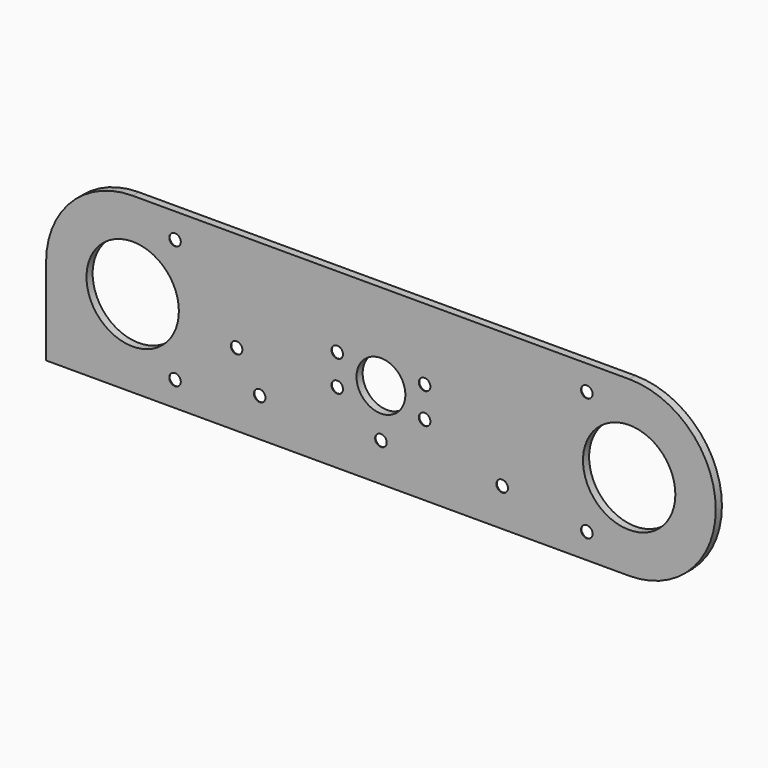
from build123d import *

# Parameters (mm, degrees)
F0_R      = 12
F1_DEPTH  = 2
F3_DEPTH  = 2
F4_R      = 1.5
F5_DEPTH  = 25
F6_R      = 6.35
F7_DEPTH  = 25
F8_R      = 1.5
F9_DEPTH  = 25
F10_R     = 1.5
F11_DEPTH = 25
F12_SIZE  = 1.86


with BuildPart() as f1:
    # F0 (on Front) → F1 (new body)
    with BuildSketch(Plane.XZ):
        with BuildLine():
            ThreePointArc((64.5, -22.5), (87, 0), (64.5, 22.5))
            Line((64.5, 22.5), (-64.5, 22.5))
            ThreePointArc((-64.5, 22.5), (-87, 0), (-64.5, -22.5))
            Line((-64.5, -22.5), (64.5, -22.5))
        make_face()
        with Locations((-64.5, 0)):
            Circle(F0_R, mode=Mode.SUBTRACT)
        with Locations((64.5, 0)):
            Circle(F0_R, mode=Mode.SUBTRACT)
    extrude(amount=F1_DEPTH)

    # F2 (on face) → F3 (join)
    with BuildSketch(Plane.XZ.offset(2)):
        Polygon((-87, -22.5), (-64.5, -22.5), (-64.5, -17.4313578755), (-70.5482587218, -14.7617282346), (-78.2682448626, -9.4630774111), (-80.8771923184, 0), (-87, 0), align=None)
    extrude(amount=-F3_DEPTH)

    # F4 (on face) → F5 (cut)
    with BuildSketch(Plane.XZ.offset(2)):
        with Locations((-53.5, 16)):
            Circle(F4_R)
        with Locations((-53.5, -16)):
            Circle(F4_R)
        with Locations((53.5, 16)):
            Circle(F4_R)
        with Locations((53.5, -16)):
            Circle(F4_R)
    extrude(amount=-F5_DEPTH, mode=Mode.SUBTRACT)

    # F6 (on face) → F7 (cut)
    with BuildSketch(Plane.XZ.offset(2)):
        Circle(F6_R)
    extrude(amount=-F7_DEPTH, mode=Mode.SUBTRACT)

    # F8 (on face) → F9 (cut)
    with BuildSketch(Plane.XZ.offset(2)):
        with Locations((-11.35, 4)):
            Circle(F8_R)
        with Locations((-11.35, -4)):
            Circle(F8_R)
        with Locations((11.35, 4)):
            Circle(F8_R)
        with Locations((11.35, -4)):
            Circle(F8_R)
    extrude(amount=-F9_DEPTH, mode=Mode.SUBTRACT)

    # F10 (on face) → F11 (cut)
    with BuildSketch(Plane.XZ.offset(2)):
        with Locations((0, -12.5)):
            Circle(F10_R)
        with Locations((31.499365073, -12.7)):
            Circle(F10_R)
        with Locations((-31.5, -12.5)):
            Circle(F10_R)
        with Locations((-37.5, -3.5)):
            Circle(F10_R)
    extrude(amount=-F11_DEPTH, mode=Mode.SUBTRACT)

    # F12
    f12_edges = [f1.edges().sort_by_distance(p)[0] for p in [
        (-55, 0, -16),
        (-33, 0, -12.5),
        (-55, 0, 16),
        (-12.85, 0, -4),
        (-12.85, 0, 4),
        (-1.5, 0, -12.5),
        (9.85, 0, -4),
        (9.85, 0, 4),
        (29.999365, 0, -12.7),
        (52, 0, -16),
        (52, 0, 16),
        (-39, 0, -3.5),
    ]]
    chamfer(f12_edges, length=F12_SIZE)


solid = f1.part
